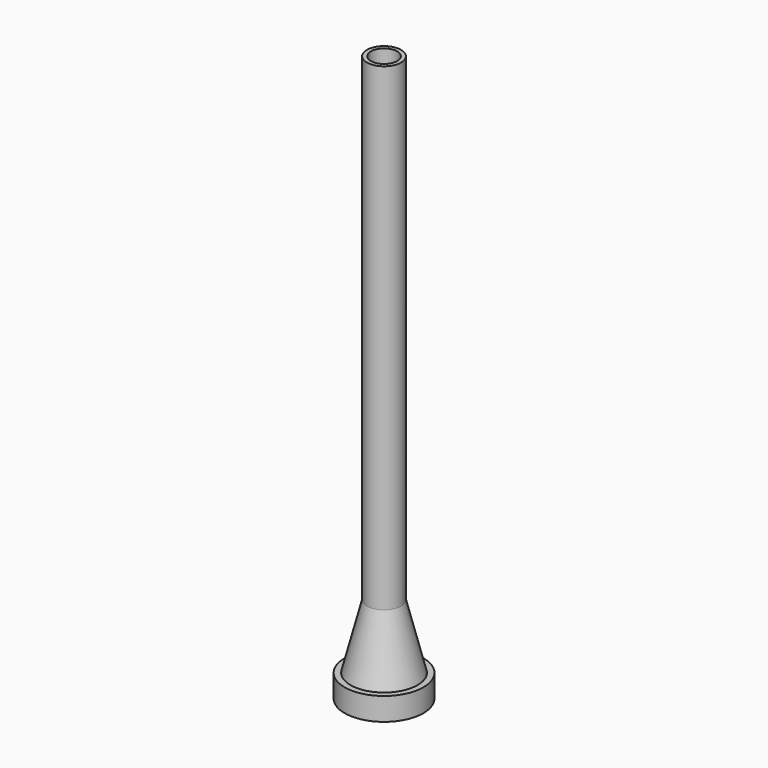
from build123d import *

# Parameters (mm, degrees)
F0_W = 1.163129
F0_H = 139.7


with BuildPart() as f1:
    # F0 (on Front) → F1 (revolve)
    with BuildSketch(Plane.XZ):
        Polygon((9.795892, 6.659129), (11.5, 0), (11.5, 6.659129), align=None)
        Polygon((3.836871, 25.4), (7.25, 0), (11.5, 0), (9.795892, 6.659129), (5, 25.4), align=None)
        with Locations((4.418436, 95.25)):
            Rectangle(F0_W, F0_H)
    revolve(axis=Axis((0, 0, 12.7), (0, 0, 1)))


solid = f1.part
